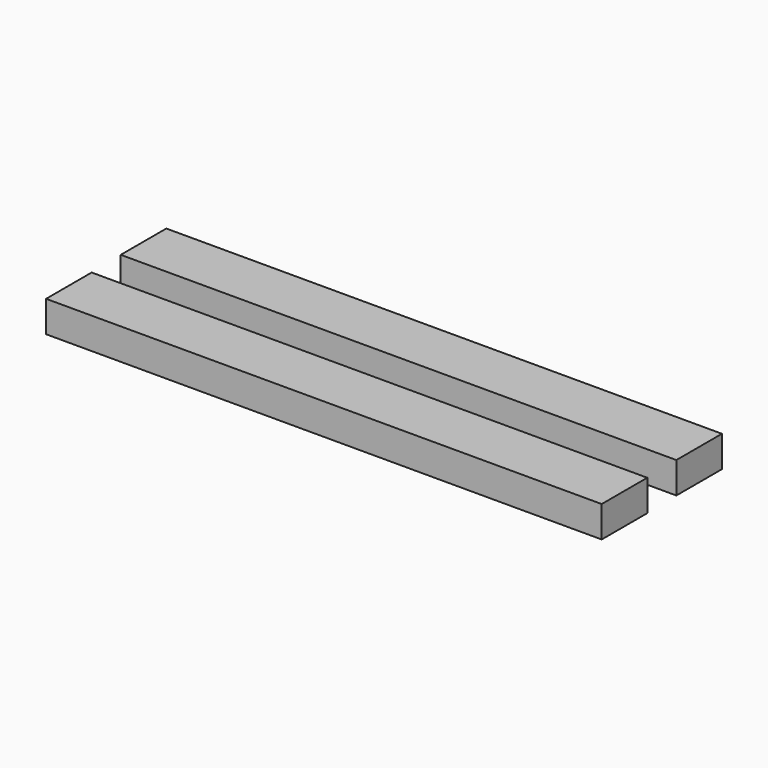
from build123d import *

# Parameters (mm, degrees)
F0_W     = 177.994654
F0_H     = 18.248664
F1_DEPTH = 10


with BuildPart() as f1:
    # F0 (on Top) → F1 (new body)
    with BuildSketch(Plane.XY):
        Rectangle(F0_W, F0_H)
        with Locations((-0.302673, 30.275668)):
            Rectangle(F0_W, F0_H)
    extrude(amount=F1_DEPTH)


solid = f1.part
